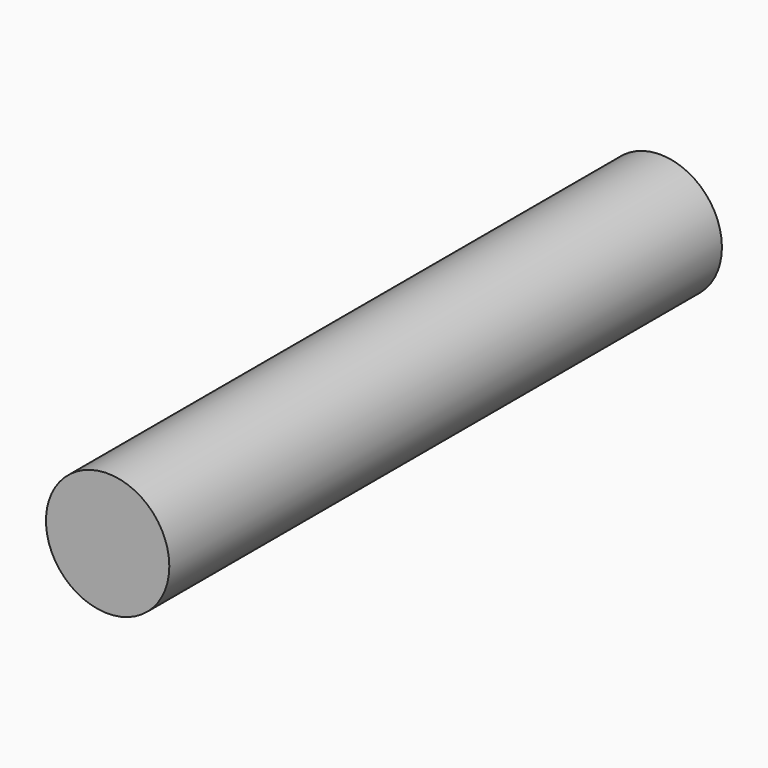
from build123d import *

# Parameters (mm, degrees)
F0_R     = 12.5
F1_DEPTH = 70
F2_DEPTH = 70


with BuildPart() as f1:
    # F0 (on Front) → F1 (new body)
    with BuildSketch(Plane.XZ):
        Circle(F0_R)
    extrude(amount=F1_DEPTH)

    # F0 (on Front) → F2 (join)
    with BuildSketch(Plane.XZ):
        Circle(F0_R)
    extrude(amount=-F2_DEPTH)


solid = f1.part
